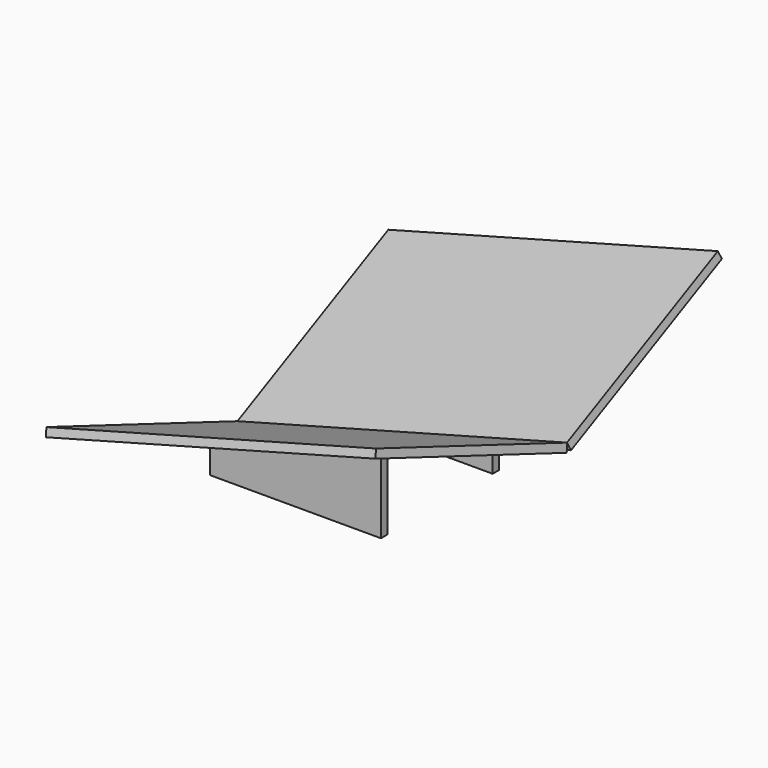
from build123d import *

# Parameters (mm, degrees)
F1_DEPTH = 1500
F2_ANGLE = 75
F3_W     = 750.7615616857
F3_H     = 35


with BuildPart() as f1:
    # F0 (on Top) → F1 (new body)
    with BuildSketch(Plane.XY):
        Polygon((32.8892417275, -11.9707050164), (0, 0), (-342.0201433257, -939.6926207859), (-309.1309015982, -951.6633258023), align=None)
    extrude(amount=F1_DEPTH)


with BuildPart() as f1b:
    # F0 (on Top) → F1, piece 2 (new body)
    with BuildSketch(Plane.XY):
        Polygon((-342.0201433257, 939.6926207859), (0, 0), (32.8892417275, 11.9707050164), (-309.1309015982, 951.6633258023), align=None)
    extrude(amount=F1_DEPTH)


with BuildPart() as f1_1:
    # F2: moved
    add(f1.part.rotate(Axis((32.8892417275, 79.9175227077, 0), (0, 1, 0)), F2_ANGLE))


with BuildPart() as f1b_1:
    # F2: moved
    add(f1b.part.rotate(Axis((32.8892417275, 79.9175227077, 0), (0, 1, 0)), F2_ANGLE))

    # F5: F4 across plane


with BuildPart() as f4:
    # F3 (on Top) → F4 (new body, up to the next surface of F1)
    with BuildSketch(Plane.XY):
        with Locations((539.626725018, -307.0452511311)):
            Rectangle(F3_W, F3_H)
    extrude(until=Until.NEXT, target=f1_1.part)


with BuildPart() as f1b_2:
    add(f1b_1.part)
    add(f4.part.mirror(Plane.XZ))


solid = Compound([f1_1.part, f4.part, f1b_2.part])
